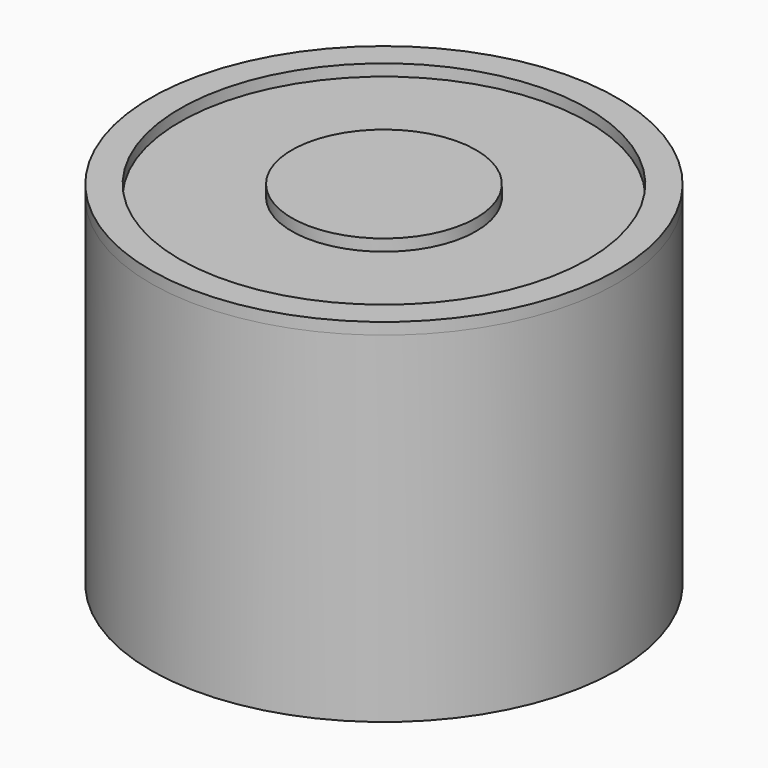
from build123d import *

# Parameters (mm, degrees)
F0_R     = 10
F0_R_2   = 8.75
F0_R_3   = 3.95
F1_DEPTH = 14.6
F2_DEPTH = 0.5


with BuildPart() as f1:
    # F0 (on Top) → F1 (new body)
    with BuildSketch(Plane.XY):
        Circle(F0_R)
        Circle(F0_R_2, mode=Mode.SUBTRACT)
        Circle(F0_R_2)
        Circle(F0_R_3, mode=Mode.SUBTRACT)
        Circle(F0_R_3)
    extrude(amount=-F1_DEPTH)

    # F0 (on Top) → F2 (join)
    with BuildSketch(Plane.XY):
        Circle(F0_R)
        Circle(F0_R_2, mode=Mode.SUBTRACT)
        Circle(F0_R_3)
    extrude(amount=F2_DEPTH)


solid = f1.part
